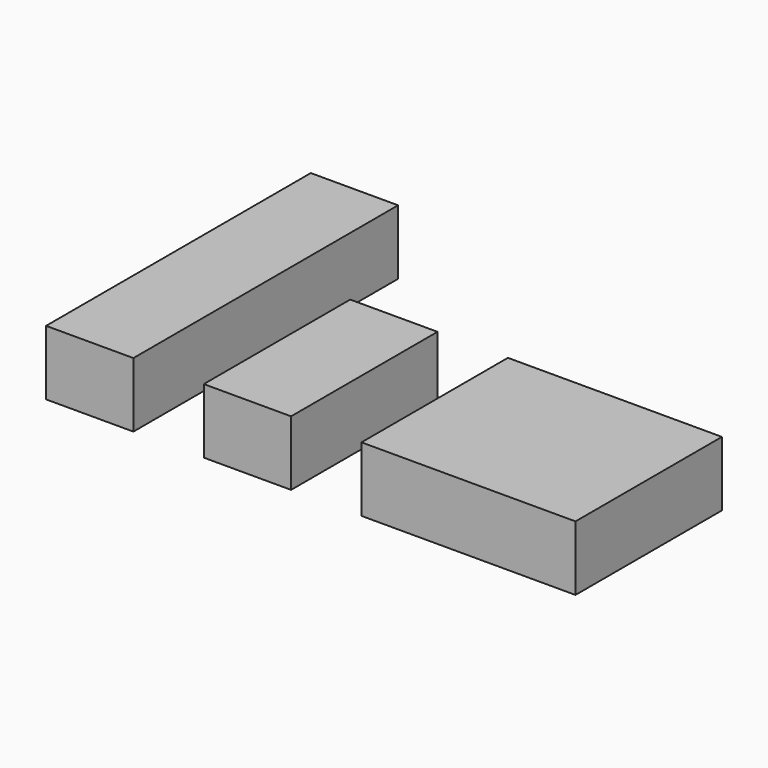
from build123d import *

# Parameters (mm, degrees)
F0_W          = 30
F0_H          = 195
F0_H_2        = 90
F0_W_2        = 120
F1_DEPTH      = 16
F1_DEPTH_BACK = 30


with BuildPart() as f1:
    # F0 (on Top) → F1 (new body, two sides)
    with BuildSketch(Plane.XY) as f1_sk:
        Polygon((0, 235), (-62, 235), (-62, 0), (-46, 0), (-46, 195), (-16, 195), (-16, 0), (0, 0), align=None)
        with Locations((-31, 97.5)):
            Rectangle(F0_W, F0_H)
        Polygon((112, 130), (50, 130), (50, 0), (66, 0), (66, 90), (96, 90), (96, 0), (112, 0), align=None)
        with Locations((81, 45)):
            Rectangle(F0_W, F0_H_2)
        Polygon((162, 130), (162, 0), (178, 0), (178, 90), (298, 90), (298, 0), (314, 0), (314, 130), align=None)
        with Locations((238, 45)):
            Rectangle(F0_W_2, F0_H_2)
    extrude(amount=F1_DEPTH)
    extrude(f1_sk.sketch, amount=-F1_DEPTH_BACK)


solid = f1.part
